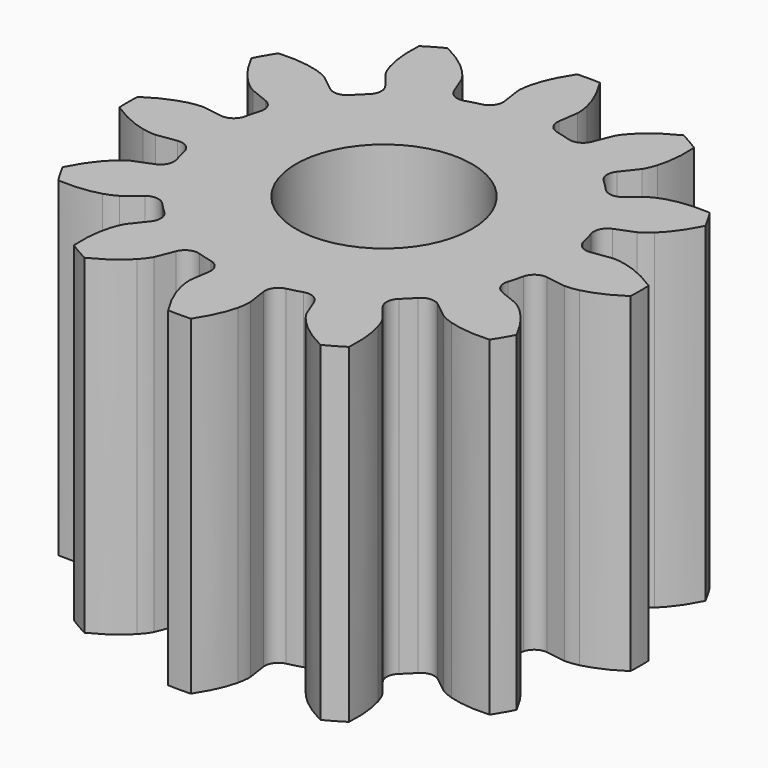
from build123d import *

# Parameters (mm, degrees)
PAD_DEPTH    = 15
SKETCH_R     = 4
POCKET_DEPTH = 15


with BuildPart() as part:
    # InvoluteGear → Pad (new body)
    with BuildSketch(Plane.XY):
        with BuildLine():
            Line((8.394667, -1.232725), (9.286418, -1.362303))
            add(Edge.make_bspline(
                [(9.286418, -1.362303), (9.355065, -1.367191), (9.561164, -1.371757), (9.907647, -1.292868)],
                knots=[0, 0, 0, 0, 1, 1, 1, 1], degree=3))
            add(Edge.make_bspline(
                [(9.907647, -1.292868), (10.320076, -1.196544), (10.907346, -0.982654), (11.610892, -0.514196)],
                knots=[0, 0, 0, 0, 1, 1, 1, 1], degree=3))
            ThreePointArc((11.610892, -0.514196), (11.622275, 0), (11.610892, 0.514196))
            add(Edge.make_bspline(
                [(11.610892, 0.514196), (10.907346, 0.982654), (10.320076, 1.196544), (9.907647, 1.292868)],
                knots=[0, 0, 0, 0, 1, 1, 1, 1], degree=3))
            add(Edge.make_bspline(
                [(9.907647, 1.292868), (9.561164, 1.371757), (9.355065, 1.367191), (9.286418, 1.362303)],
                knots=[0, 0, 0, 0, 1, 1, 1, 1], degree=3))
            Line((9.286418, 1.362303), (8.394667, 1.232725))
            ThreePointArc((8.394667, 1.232725), (7.951843, 1.335458), (7.696934, 1.711849))
            ThreePointArc((7.696934, 1.711849), (7.616325, 2.040788), (7.521665, 2.365962))
            ThreePointArc((7.521665, 2.365962), (7.554227, 2.81938), (7.886357, 3.129763))
            Line((7.886357, 3.129763), (8.723425, 3.46342))
            add(Edge.make_bspline(
                [(8.723425, 3.46342), (8.785319, 3.493511), (8.96609, 3.592606), (9.226708, 3.834167)],
                knots=[0, 0, 0, 0, 1, 1, 1, 1], degree=3))
            add(Edge.make_bspline(
                [(9.226708, 3.834167), (9.53572, 4.1238), (9.937365, 4.602669), (10.312426, 5.36014)],
                knots=[0, 0, 0, 0, 1, 1, 1, 1], degree=3))
            ThreePointArc((10.312426, 5.36014), (10.065185, 5.811137), (9.79823, 6.250753))
            add(Edge.make_bspline(
                [(9.79823, 6.250753), (8.954711, 6.304676), (8.339176, 6.196276), (7.93384, 6.07348)],
                knots=[0, 0, 0, 0, 1, 1, 1, 1], degree=3))
            add(Edge.make_bspline(
                [(7.93384, 6.07348), (7.594333, 5.968559), (7.418129, 5.861555), (7.361122, 5.822998)],
                knots=[0, 0, 0, 0, 1, 1, 1, 1], degree=3))
            Line((7.361122, 5.822998), (6.653633, 5.264904))
            ThreePointArc((6.653633, 5.264904), (6.218768, 5.132462), (5.809816, 5.330972))
            ThreePointArc((5.809816, 5.330972), (5.575537, 5.575537), (5.330972, 5.809816))
            ThreePointArc((5.330972, 5.809816), (5.132462, 6.218768), (5.264904, 6.653633))
            Line((5.264904, 6.653633), (5.822998, 7.361122))
            add(Edge.make_bspline(
                [(5.822998, 7.361122), (5.861555, 7.418129), (5.968559, 7.594333), (6.07348, 7.93384)],
                knots=[0, 0, 0, 0, 1, 1, 1, 1], degree=3))
            add(Edge.make_bspline(
                [(6.07348, 7.93384), (6.196276, 8.339176), (6.304676, 8.954711), (6.250753, 9.79823)],
                knots=[0, 0, 0, 0, 1, 1, 1, 1], degree=3))
            ThreePointArc((6.250753, 9.79823), (5.811137, 10.065185), (5.36014, 10.312426))
            add(Edge.make_bspline(
                [(5.36014, 10.312426), (4.602669, 9.937365), (4.1238, 9.53572), (3.834167, 9.226708)],
                knots=[0, 0, 0, 0, 1, 1, 1, 1], degree=3))
            add(Edge.make_bspline(
                [(3.834167, 9.226708), (3.592606, 8.96609), (3.493511, 8.785319), (3.46342, 8.723425)],
                knots=[0, 0, 0, 0, 1, 1, 1, 1], degree=3))
            Line((3.46342, 8.723425), (3.129763, 7.886357))
            ThreePointArc((3.129763, 7.886357), (2.81938, 7.554227), (2.365962, 7.521665))
            ThreePointArc((2.365962, 7.521665), (2.040788, 7.616325), (1.711849, 7.696934))
            ThreePointArc((1.711849, 7.696934), (1.335458, 7.951843), (1.232725, 8.394667))
            Line((1.232725, 8.394667), (1.362303, 9.286418))
            add(Edge.make_bspline(
                [(1.362303, 9.286418), (1.367191, 9.355065), (1.371757, 9.561164), (1.292868, 9.907647)],
                knots=[0, 0, 0, 0, 1, 1, 1, 1], degree=3))
            add(Edge.make_bspline(
                [(1.292868, 9.907647), (1.196544, 10.320076), (0.982654, 10.907346), (0.514196, 11.610892)],
                knots=[0, 0, 0, 0, 1, 1, 1, 1], degree=3))
            ThreePointArc((0.514196, 11.610892), (0, 11.622275), (-0.514196, 11.610892))
            add(Edge.make_bspline(
                [(-0.514196, 11.610892), (-0.982654, 10.907346), (-1.196544, 10.320076), (-1.292868, 9.907647)],
                knots=[0, 0, 0, 0, 1, 1, 1, 1], degree=3))
            add(Edge.make_bspline(
                [(-1.292868, 9.907647), (-1.371757, 9.561164), (-1.367191, 9.355065), (-1.362303, 9.286418)],
                knots=[0, 0, 0, 0, 1, 1, 1, 1], degree=3))
            Line((-1.362303, 9.286418), (-1.232725, 8.394667))
            ThreePointArc((-1.232725, 8.394667), (-1.335458, 7.951843), (-1.711849, 7.696934))
            ThreePointArc((-1.711849, 7.696934), (-2.040788, 7.616325), (-2.365962, 7.521665))
            ThreePointArc((-2.365962, 7.521665), (-2.81938, 7.554227), (-3.129763, 7.886357))
            Line((-3.129763, 7.886357), (-3.46342, 8.723425))
            add(Edge.make_bspline(
                [(-3.46342, 8.723425), (-3.493511, 8.785319), (-3.592606, 8.96609), (-3.834167, 9.226708)],
                knots=[0, 0, 0, 0, 1, 1, 1, 1], degree=3))
            add(Edge.make_bspline(
                [(-3.834167, 9.226708), (-4.1238, 9.53572), (-4.602669, 9.937365), (-5.36014, 10.312426)],
                knots=[0, 0, 0, 0, 1, 1, 1, 1], degree=3))
            ThreePointArc((-5.36014, 10.312426), (-5.811137, 10.065185), (-6.250753, 9.79823))
            add(Edge.make_bspline(
                [(-6.250753, 9.79823), (-6.304676, 8.954711), (-6.196276, 8.339176), (-6.07348, 7.93384)],
                knots=[0, 0, 0, 0, 1, 1, 1, 1], degree=3))
            add(Edge.make_bspline(
                [(-6.07348, 7.93384), (-5.968559, 7.594333), (-5.861555, 7.418129), (-5.822998, 7.361122)],
                knots=[0, 0, 0, 0, 1, 1, 1, 1], degree=3))
            Line((-5.822998, 7.361122), (-5.264904, 6.653633))
            ThreePointArc((-5.264904, 6.653633), (-5.132462, 6.218768), (-5.330972, 5.809816))
            ThreePointArc((-5.330972, 5.809816), (-5.575537, 5.575537), (-5.809816, 5.330972))
            ThreePointArc((-5.809816, 5.330972), (-6.218768, 5.132462), (-6.653633, 5.264904))
            Line((-6.653633, 5.264904), (-7.361122, 5.822998))
            add(Edge.make_bspline(
                [(-7.361122, 5.822998), (-7.418129, 5.861555), (-7.594333, 5.968559), (-7.93384, 6.07348)],
                knots=[0, 0, 0, 0, 1, 1, 1, 1], degree=3))
            add(Edge.make_bspline(
                [(-7.93384, 6.07348), (-8.339176, 6.196276), (-8.954711, 6.304676), (-9.79823, 6.250753)],
                knots=[0, 0, 0, 0, 1, 1, 1, 1], degree=3))
            ThreePointArc((-9.79823, 6.250753), (-10.065185, 5.811137), (-10.312426, 5.36014))
            add(Edge.make_bspline(
                [(-10.312426, 5.36014), (-9.937365, 4.602669), (-9.53572, 4.1238), (-9.226708, 3.834167)],
                knots=[0, 0, 0, 0, 1, 1, 1, 1], degree=3))
            add(Edge.make_bspline(
                [(-9.226708, 3.834167), (-8.96609, 3.592606), (-8.785319, 3.493511), (-8.723425, 3.46342)],
                knots=[0, 0, 0, 0, 1, 1, 1, 1], degree=3))
            Line((-8.723425, 3.46342), (-7.886357, 3.129763))
            ThreePointArc((-7.886357, 3.129763), (-7.554227, 2.81938), (-7.521665, 2.365962))
            ThreePointArc((-7.521665, 2.365962), (-7.616325, 2.040788), (-7.696934, 1.711849))
            ThreePointArc((-7.696934, 1.711849), (-7.951843, 1.335458), (-8.394667, 1.232725))
            Line((-8.394667, 1.232725), (-9.286418, 1.362303))
            add(Edge.make_bspline(
                [(-9.286418, 1.362303), (-9.355065, 1.367191), (-9.561164, 1.371757), (-9.907647, 1.292868)],
                knots=[0, 0, 0, 0, 1, 1, 1, 1], degree=3))
            add(Edge.make_bspline(
                [(-9.907647, 1.292868), (-10.320076, 1.196544), (-10.907346, 0.982654), (-11.610892, 0.514196)],
                knots=[0, 0, 0, 0, 1, 1, 1, 1], degree=3))
            ThreePointArc((-11.610892, 0.514196), (-11.622275, 0), (-11.610892, -0.514196))
            add(Edge.make_bspline(
                [(-11.610892, -0.514196), (-10.907346, -0.982654), (-10.320076, -1.196544), (-9.907647, -1.292868)],
                knots=[0, 0, 0, 0, 1, 1, 1, 1], degree=3))
            add(Edge.make_bspline(
                [(-9.907647, -1.292868), (-9.561164, -1.371757), (-9.355065, -1.367191), (-9.286418, -1.362303)],
                knots=[0, 0, 0, 0, 1, 1, 1, 1], degree=3))
            Line((-9.286418, -1.362303), (-8.394667, -1.232725))
            ThreePointArc((-8.394667, -1.232725), (-7.951843, -1.335458), (-7.696934, -1.711849))
            ThreePointArc((-7.696934, -1.711849), (-7.616325, -2.040788), (-7.521665, -2.365962))
            ThreePointArc((-7.521665, -2.365962), (-7.554227, -2.81938), (-7.886357, -3.129763))
            Line((-7.886357, -3.129763), (-8.723425, -3.46342))
            add(Edge.make_bspline(
                [(-8.723425, -3.46342), (-8.785319, -3.493511), (-8.96609, -3.592606), (-9.226708, -3.834167)],
                knots=[0, 0, 0, 0, 1, 1, 1, 1], degree=3))
            add(Edge.make_bspline(
                [(-9.226708, -3.834167), (-9.53572, -4.1238), (-9.937365, -4.602669), (-10.312426, -5.36014)],
                knots=[0, 0, 0, 0, 1, 1, 1, 1], degree=3))
            ThreePointArc((-10.312426, -5.36014), (-10.065185, -5.811137), (-9.79823, -6.250753))
            add(Edge.make_bspline(
                [(-9.79823, -6.250753), (-8.954711, -6.304676), (-8.339176, -6.196276), (-7.93384, -6.07348)],
                knots=[0, 0, 0, 0, 1, 1, 1, 1], degree=3))
            add(Edge.make_bspline(
                [(-7.93384, -6.07348), (-7.594333, -5.968559), (-7.418129, -5.861555), (-7.361122, -5.822998)],
                knots=[0, 0, 0, 0, 1, 1, 1, 1], degree=3))
            Line((-7.361122, -5.822998), (-6.653633, -5.264904))
            ThreePointArc((-6.653633, -5.264904), (-6.218768, -5.132462), (-5.809816, -5.330972))
            ThreePointArc((-5.809816, -5.330972), (-5.575537, -5.575537), (-5.330972, -5.809816))
            ThreePointArc((-5.330972, -5.809816), (-5.132462, -6.218768), (-5.264904, -6.653633))
            Line((-5.264904, -6.653633), (-5.822998, -7.361122))
            add(Edge.make_bspline(
                [(-5.822998, -7.361122), (-5.861555, -7.418129), (-5.968559, -7.594333), (-6.07348, -7.93384)],
                knots=[0, 0, 0, 0, 1, 1, 1, 1], degree=3))
            add(Edge.make_bspline(
                [(-6.07348, -7.93384), (-6.196276, -8.339176), (-6.304676, -8.954711), (-6.250753, -9.79823)],
                knots=[0, 0, 0, 0, 1, 1, 1, 1], degree=3))
            ThreePointArc((-6.250753, -9.79823), (-5.811137, -10.065185), (-5.36014, -10.312426))
            add(Edge.make_bspline(
                [(-5.36014, -10.312426), (-4.602669, -9.937365), (-4.1238, -9.53572), (-3.834167, -9.226708)],
                knots=[0, 0, 0, 0, 1, 1, 1, 1], degree=3))
            add(Edge.make_bspline(
                [(-3.834167, -9.226708), (-3.592606, -8.96609), (-3.493511, -8.785319), (-3.46342, -8.723425)],
                knots=[0, 0, 0, 0, 1, 1, 1, 1], degree=3))
            Line((-3.46342, -8.723425), (-3.129763, -7.886357))
            ThreePointArc((-3.129763, -7.886357), (-2.81938, -7.554227), (-2.365962, -7.521665))
            ThreePointArc((-2.365962, -7.521665), (-2.040788, -7.616325), (-1.711849, -7.696934))
            ThreePointArc((-1.711849, -7.696934), (-1.335458, -7.951843), (-1.232725, -8.394667))
            Line((-1.232725, -8.394667), (-1.362303, -9.286418))
            add(Edge.make_bspline(
                [(-1.362303, -9.286418), (-1.367191, -9.355065), (-1.371757, -9.561164), (-1.292868, -9.907647)],
                knots=[0, 0, 0, 0, 1, 1, 1, 1], degree=3))
            add(Edge.make_bspline(
                [(-1.292868, -9.907647), (-1.196544, -10.320076), (-0.982654, -10.907346), (-0.514196, -11.610892)],
                knots=[0, 0, 0, 0, 1, 1, 1, 1], degree=3))
            ThreePointArc((-0.514196, -11.610892), (0, -11.622275), (0.514196, -11.610892))
            add(Edge.make_bspline(
                [(0.514196, -11.610892), (0.982654, -10.907346), (1.196544, -10.320076), (1.292868, -9.907647)],
                knots=[0, 0, 0, 0, 1, 1, 1, 1], degree=3))
            add(Edge.make_bspline(
                [(1.292868, -9.907647), (1.371757, -9.561164), (1.367191, -9.355065), (1.362303, -9.286418)],
                knots=[0, 0, 0, 0, 1, 1, 1, 1], degree=3))
            Line((1.362303, -9.286418), (1.232725, -8.394667))
            ThreePointArc((1.232725, -8.394667), (1.335458, -7.951843), (1.711849, -7.696934))
            ThreePointArc((1.711849, -7.696934), (2.040788, -7.616325), (2.365962, -7.521665))
            ThreePointArc((2.365962, -7.521665), (2.81938, -7.554227), (3.129763, -7.886357))
            Line((3.129763, -7.886357), (3.46342, -8.723425))
            add(Edge.make_bspline(
                [(3.46342, -8.723425), (3.493511, -8.785319), (3.592606, -8.96609), (3.834167, -9.226708)],
                knots=[0, 0, 0, 0, 1, 1, 1, 1], degree=3))
            add(Edge.make_bspline(
                [(3.834167, -9.226708), (4.1238, -9.53572), (4.602669, -9.937365), (5.36014, -10.312426)],
                knots=[0, 0, 0, 0, 1, 1, 1, 1], degree=3))
            ThreePointArc((5.36014, -10.312426), (5.811137, -10.065185), (6.250753, -9.79823))
            add(Edge.make_bspline(
                [(6.250753, -9.79823), (6.304676, -8.954711), (6.196276, -8.339176), (6.07348, -7.93384)],
                knots=[0, 0, 0, 0, 1, 1, 1, 1], degree=3))
            add(Edge.make_bspline(
                [(6.07348, -7.93384), (5.968559, -7.594333), (5.861555, -7.418129), (5.822998, -7.361122)],
                knots=[0, 0, 0, 0, 1, 1, 1, 1], degree=3))
            Line((5.822998, -7.361122), (5.264904, -6.653633))
            ThreePointArc((5.264904, -6.653633), (5.132462, -6.218768), (5.330972, -5.809816))
            ThreePointArc((5.330972, -5.809816), (5.575537, -5.575537), (5.809816, -5.330972))
            ThreePointArc((5.809816, -5.330972), (6.218768, -5.132462), (6.653633, -5.264904))
            Line((6.653633, -5.264904), (7.361122, -5.822998))
            add(Edge.make_bspline(
                [(7.361122, -5.822998), (7.418129, -5.861555), (7.594333, -5.968559), (7.93384, -6.07348)],
                knots=[0, 0, 0, 0, 1, 1, 1, 1], degree=3))
            add(Edge.make_bspline(
                [(7.93384, -6.07348), (8.339176, -6.196276), (8.954711, -6.304676), (9.79823, -6.250753)],
                knots=[0, 0, 0, 0, 1, 1, 1, 1], degree=3))
            ThreePointArc((9.79823, -6.250753), (10.065185, -5.811137), (10.312426, -5.36014))
            add(Edge.make_bspline(
                [(10.312426, -5.36014), (9.937365, -4.602669), (9.53572, -4.1238), (9.226708, -3.834167)],
                knots=[0, 0, 0, 0, 1, 1, 1, 1], degree=3))
            add(Edge.make_bspline(
                [(9.226708, -3.834167), (8.96609, -3.592606), (8.785319, -3.493511), (8.723425, -3.46342)],
                knots=[0, 0, 0, 0, 1, 1, 1, 1], degree=3))
            Line((8.723425, -3.46342), (7.886357, -3.129763))
            ThreePointArc((7.886357, -3.129763), (7.554227, -2.81938), (7.521665, -2.365962))
            ThreePointArc((7.521665, -2.365962), (7.616325, -2.040788), (7.696934, -1.711849))
            ThreePointArc((7.696934, -1.711849), (7.951843, -1.335458), (8.394667, -1.232725))
        make_face()
    extrude(amount=PAD_DEPTH)

    # Sketch (on Face122 of Pad) → Pocket (cut)
    with BuildSketch(Plane.XY.offset(15)):
        Circle(SKETCH_R)
    extrude(amount=-POCKET_DEPTH, mode=Mode.SUBTRACT)


solid = part.part
